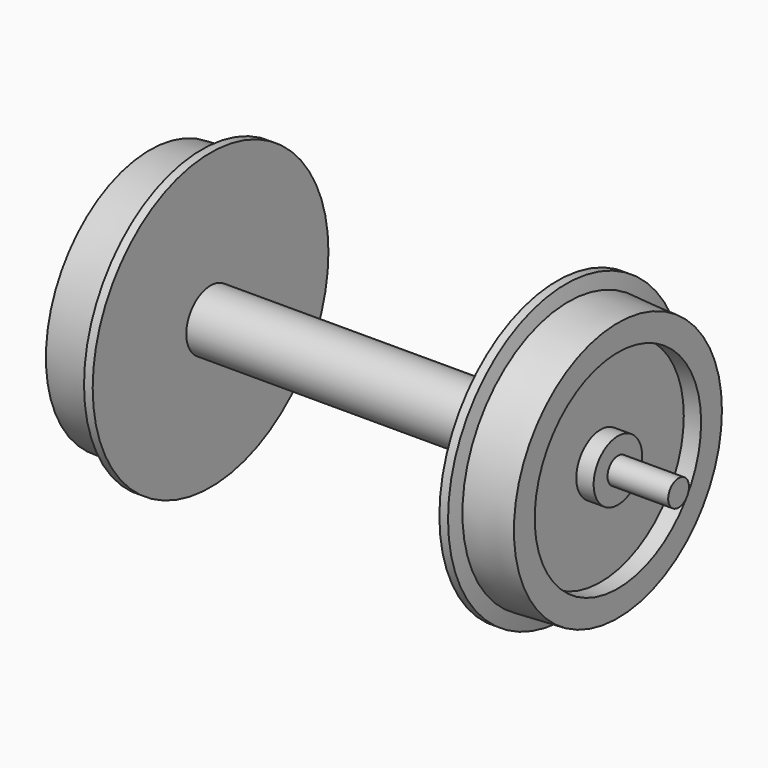
from build123d import *


with BuildPart() as f1:
    # F0 (on Top) → F1 (revolve)
    with BuildSketch(Plane.XY):
        Polygon((25, 12), (27, 12), (27, 15), (21.299981, 15.298725), (21, 17), (20, 17), (20, 3.5), (0, 3.5), (-20, 3.5), (-20, 17), (-21, 17), (-21.299981, 15.298725), (-27, 15), (-27, 12), (-25, 12), (-25, 3.5), (-27, 3.5), (-27, 1.5), (-34, 1.5), (-34, 0), (34, 0), (34, 1.5), (27, 1.5), (27, 3.5), (25, 3.5), align=None)
    revolve(axis=Axis((0.492189, 0, 0), (1, 0, 0)))


solid = f1.part
